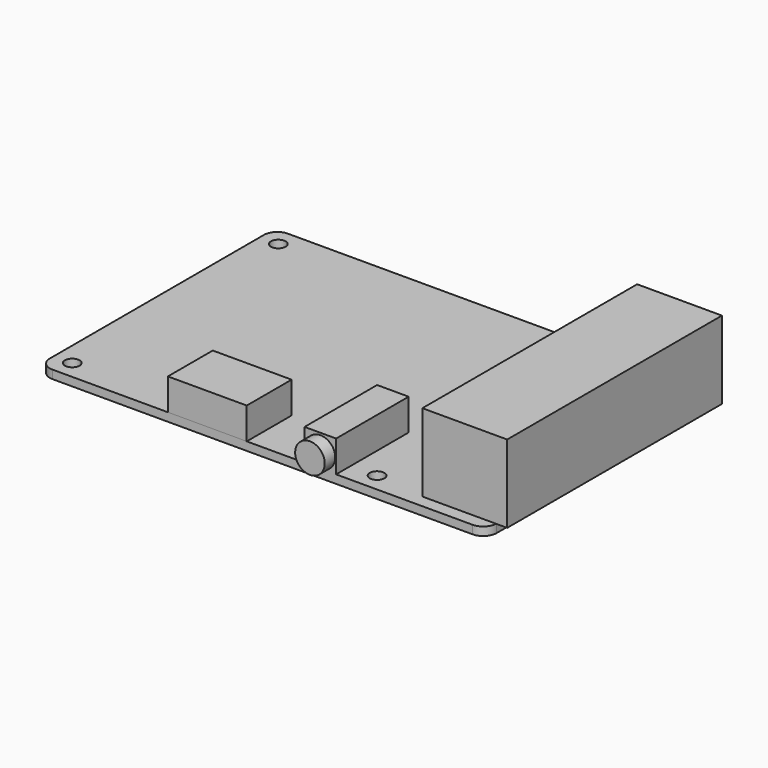
from build123d import *

# Parameters (mm, degrees)
F0_R     = 1.4
F1_DEPTH = 1.6
F3_DEPTH = 14.8
F4_W     = 50.753152
F4_H     = 4.055865
F5_DEPTH = 2.4
F6_W     = 15
F6_H     = 10.663575
F6_W_2   = 6
F6_H_2   = 17.250186
F7_DEPTH = 6
F8_R     = 2.81533
F9_DEPTH = 2.5


with BuildPart() as f1:
    # F0 (on Top) → F1 (new body)
    with BuildSketch(Plane.XY):
        with BuildLine():
            ThreePointArc((0, 2.54), (0.743949, 0.743949), (2.54, 0))
            Line((2.54, 0), (82.46, 0))
            ThreePointArc((82.46, 0), (84.256051, 0.743949), (85, 2.54))
            Line((85, 2.54), (85, 53.46))
            ThreePointArc((85, 53.46), (84.256051, 55.256051), (82.46, 56))
            Line((82.46, 56), (2.54, 56))
            ThreePointArc((2.54, 56), (0.743949, 55.256051), (0, 53.46))
            Line((0, 53.46), (0, 2.54))
        make_face()
        with Locations((3.5, 3.5)):
            Circle(F0_R, mode=Mode.SUBTRACT)
        with Locations((61.5, 3.5)):
            Circle(F0_R, mode=Mode.SUBTRACT)
        with Locations((3.5, 52.5)):
            Circle(F0_R, mode=Mode.SUBTRACT)
        with Locations((61.5, 52.5)):
            Circle(F0_R, mode=Mode.SUBTRACT)
    extrude(amount=F1_DEPTH)

    # F2 (on face) → F3 (join)
    with BuildSketch(Plane.XY.offset(1.6)):
        with BuildLine():
            Line((87.1, 53.500596), (84.999676, 53.500596))
            ThreePointArc((84.999676, 53.500596), (84.999919, 53.480299), (85, 53.46))
            Line((85, 53.46), (85, 2.54))
            ThreePointArc((85, 2.54), (84.99945, 2.487141), (84.9978, 2.434306))
            Line((84.9978, 2.434306), (87.1, 2.434306))
            Line((87.1, 2.434306), (87.1, 53.500596))
        make_face()
        with BuildLine():
            ThreePointArc((85, 53.46), (84.999919, 53.480299), (84.999676, 53.500596))
            Line((84.999676, 53.500596), (70.968957, 53.500596))
            Line((70.968957, 53.500596), (70.968957, 2.434306))
            Line((70.968957, 2.434306), (84.9978, 2.434306))
            ThreePointArc((84.9978, 2.434306), (84.99945, 2.487141), (85, 2.54))
            Line((85, 2.54), (85, 53.46))
        make_face()
    extrude(amount=F3_DEPTH)

    # F4 (on face) → F5 (join)
    with BuildSketch(Plane(origin=(0, 0, 0), x_dir=(1, 0, 0), z_dir=(0, 0, -1))):
        with Locations((32.603734, -52.212033)):
            Rectangle(F4_W, F4_H)
    extrude(amount=F5_DEPTH)

    # F6 (on face) → F7 (join)
    with BuildSketch(Plane.XY.offset(1.6)):
        with Locations((32, 5.331787)):
            Rectangle(F6_W, F6_H)
        with Locations((53.5, 8.625093)):
            Rectangle(F6_W_2, F6_H_2)
    extrude(amount=F7_DEPTH)

    # F8 (on face) → F9 (join)
    with BuildSketch(Plane.XZ):
        with Locations((53.522337, 4.380519)):
            Circle(F8_R)
    extrude(amount=F9_DEPTH)


solid = f1.part
